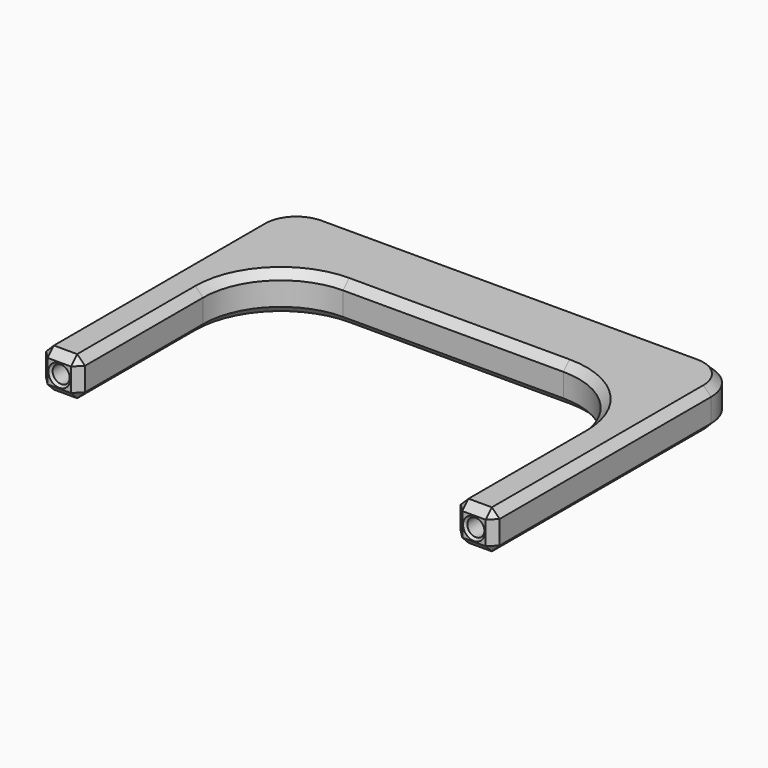
from build123d import *

# Parameters (mm, degrees)
PAD_DEPTH       = 2.5
CHAMFER_SIZE    = 1
SKETCH001_R     = 1.1
POCKET_DEPTH    = 12
CHAMFER001_SIZE = 0.3


with BuildPart() as part:
    # Sketch → Pad (new body, symmetric)
    with BuildSketch(Plane.XY):
        with BuildLine():
            Line((-29.17, 0), (-29.17, 35))
            ThreePointArc((-24.17, 40), (-27.705534, 38.535534), (-29.17, 35))
            Line((-24.17, 40), (24.17, 40))
            ThreePointArc((29.17, 35), (27.705534, 38.535534), (24.17, 40))
            Line((29.17, 35), (29.17, 0))
            Line((29.17, 0), (24.17, 0))
            Line((24.17, 20), (24.17, 0))
            ThreePointArc((24.17, 20), (21.241068, 27.071068), (14.17, 30))
            Line((-14.17, 30), (14.17, 30))
            ThreePointArc((-14.17, 30), (-21.241068, 27.071068), (-24.17, 20))
            Line((-24.17, 0), (-24.17, 20))
            Line((-29.17, 0), (-24.17, 0))
        make_face()
    extrude(amount=PAD_DEPTH, both=True)

    # Chamfer
    chamfer_edges = [part.edges().sort_by_distance(p)[0] for p in [
        (-26.67, 0, 2.5),
        (-29.17, 17.5, 2.5),
        (-27.705534, 38.535534, 2.5),
        (0, 40, 2.5),
        (27.705534, 38.535534, 2.5),
        (29.17, 17.5, 2.5),
        (26.67, 0, 2.5),
        (24.17, 10, 2.5),
        (21.241068, 27.071068, 2.5),
        (0, 30, 2.5),
        (-21.241068, 27.071068, 2.5),
        (-24.17, 10, 2.5),
        (-26.67, 0, -2.5),
        (-29.17, 17.5, -2.5),
        (-27.705534, 38.535534, -2.5),
        (0, 40, -2.5),
        (27.705534, 38.535534, -2.5),
        (29.17, 17.5, -2.5),
        (26.67, 0, -2.5),
        (24.17, 10, -2.5),
        (21.241068, 27.071068, -2.5),
        (0, 30, -2.5),
        (-21.241068, 27.071068, -2.5),
        (-24.17, 10, -2.5),
        (-29.17, 0, 0),
        (-24.17, 0, 0),
        (24.17, 0, 0),
        (29.17, 0, 0),
    ]]
    chamfer(chamfer_edges, length=CHAMFER_SIZE)

    # Sketch001 → Pocket (cut)
    with BuildSketch(Plane.XZ):
        with Locations((-26.67, 0)):
            Circle(SKETCH001_R)
        with Locations((26.67, 0)):
            Circle(SKETCH001_R)
    extrude(amount=-POCKET_DEPTH, mode=Mode.SUBTRACT)

    # Chamfer001
    chamfer001_edges = [part.edges().sort_by_distance(p)[0] for p in [
        (-27.77, 0, 0),
        (25.57, 0, 0),
    ]]
    chamfer(chamfer001_edges, length=CHAMFER001_SIZE)


solid = part.part
